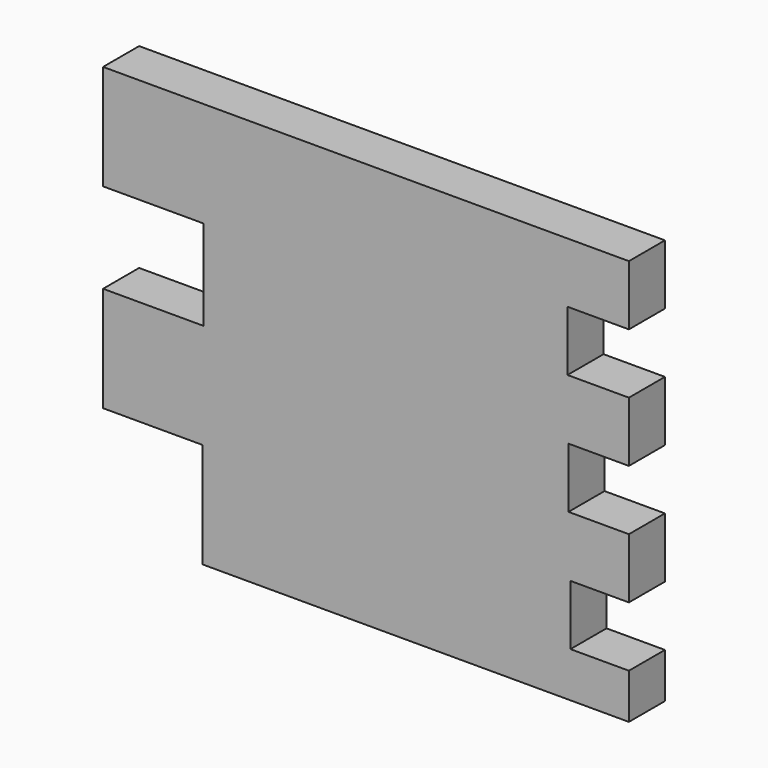
from build123d import *

# Parameters (mm, degrees)
F0_W     = 175
F0_H     = 135
F1_DEPTH = 15
F2_W     = 33.1738661975
F2_H     = 35
F2_W_2   = 33.4070246667
F2_H_2   = 30
F3_DEPTH = 15.001
F4_W     = 20.4337459058
F4_H     = 20
F4_W_2   = 20.1040055603
F4_W_3   = 19.4445397705
F5_DEPTH = 15.001


with BuildPart() as f1:
    # F0 (on Front) → F1 (new body)
    with BuildSketch(Plane.XZ):
        with Locations((2.9073413461, 9.0749097914)):
            Rectangle(F0_W, F0_H)
    extrude(amount=-F1_DEPTH)

    # F2 (on face) → F3 (cut, through all)
    with BuildSketch(Plane.XZ):
        with Locations((-68.0057255551, -40.9250902086)):
            Rectangle(F2_W, F2_H)
        with Locations((-67.8891463205, 26.5749097914)):
            Rectangle(F2_W_2, F2_H_2)
    extrude(amount=-F3_DEPTH, mode=Mode.SUBTRACT)

    # F4 (on face) → F5 (cut, through all)
    with BuildSketch(Plane.XZ):
        with Locations((80.1904683933, 46.5749097914)):
            Rectangle(F4_W, F4_H)
        with Locations((80.355338566, 6.5749097914)):
            Rectangle(F4_W_2, F4_H)
        with Locations((80.6850714609, -33.4250902086)):
            Rectangle(F4_W_3, F4_H)
    extrude(amount=-F5_DEPTH, mode=Mode.SUBTRACT)


solid = f1.part
